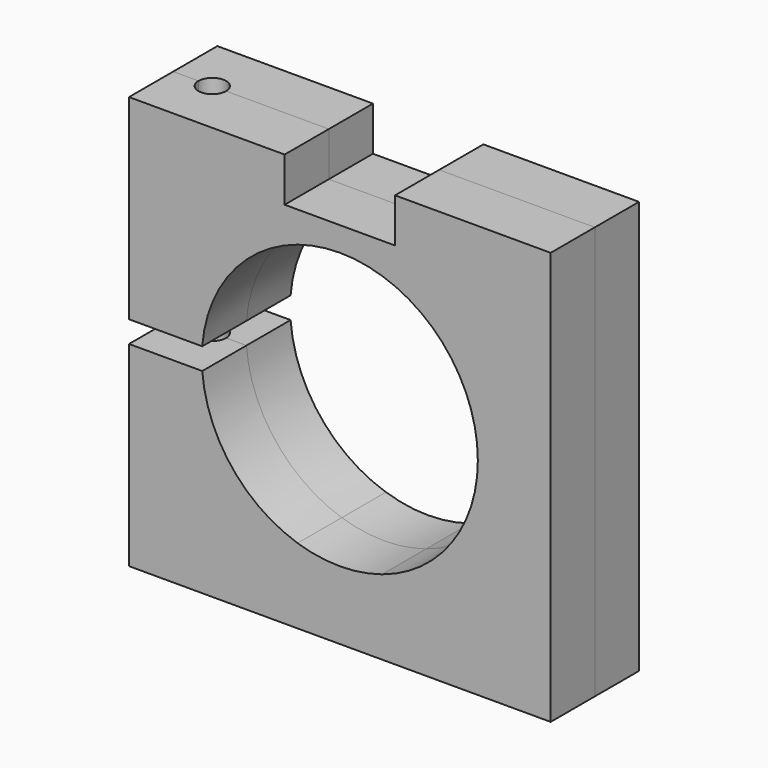
from build123d import *

# Parameters (mm, degrees)
F1_DEPTH = 12.7
F2_W     = 25.4
F2_H     = 12.7
F3_DEPTH = 10.16
F6_D     = 6.35
F6_2_D   = 6.35


with BuildPart() as f1:
    # F0 (on Front) → F1 (new body)
    with BuildSketch(Plane.XZ):
        with BuildLine():
            ThreePointArc((-31.651422, 2.5), (-24.900857, 19.697964), (-9.718612, 30.226))
            ThreePointArc((-9.718612, 30.226), (0, 31.75), (9.718612, 30.226))
            ThreePointArc((9.718612, 30.226), (25.657635, 18.701558), (31.75, 0))
            ThreePointArc((31.75, 0), (25.657635, -18.701558), (9.718612, -30.226))
            ThreePointArc((9.718612, -30.226), (0, -31.75), (-9.718612, -30.226))
            ThreePointArc((-9.718612, -30.226), (-24.900857, -19.697964), (-31.651422, -2.5))
            Line((-31.651422, -2.5), (-48.5, -2.5))
            Line((-48.5, -2.5), (-48.5, -47.5))
            Line((-48.5, -47.5), (48.5, -47.5))
            Line((48.5, -47.5), (48.5, 47.5))
            Line((48.5, 47.5), (-48.5, 47.5))
            Line((-48.5, 47.5), (-48.5, 2.5))
            Line((-48.5, 2.5), (-31.651422, 2.5))
        make_face()
    extrude(amount=F1_DEPTH)

    # F2 (on face) → F3 (cut)
    with BuildSketch(Plane.XY.offset(47.5)):
        with Locations((0, -6.35)):
            Rectangle(F2_W, F2_H)
    extrude(amount=-F3_DEPTH, mode=Mode.SUBTRACT)

    # F6 (through all)
    with Locations(Plane.XY.offset(47.5)):
        with Locations((-39.5, 0)):
            Hole(F6_D / 2)


with BuildPart() as f4_1:
    # F4: instance of F1
    add(f1.part.mirror(Plane.XZ))

    # F6#2 (through all)
    with Locations(Plane.XY.offset(47.5)):
        with Locations((-39.5, 0)):
            Hole(F6_2_D / 2)


solid = Compound([f1.part, f4_1.part])
